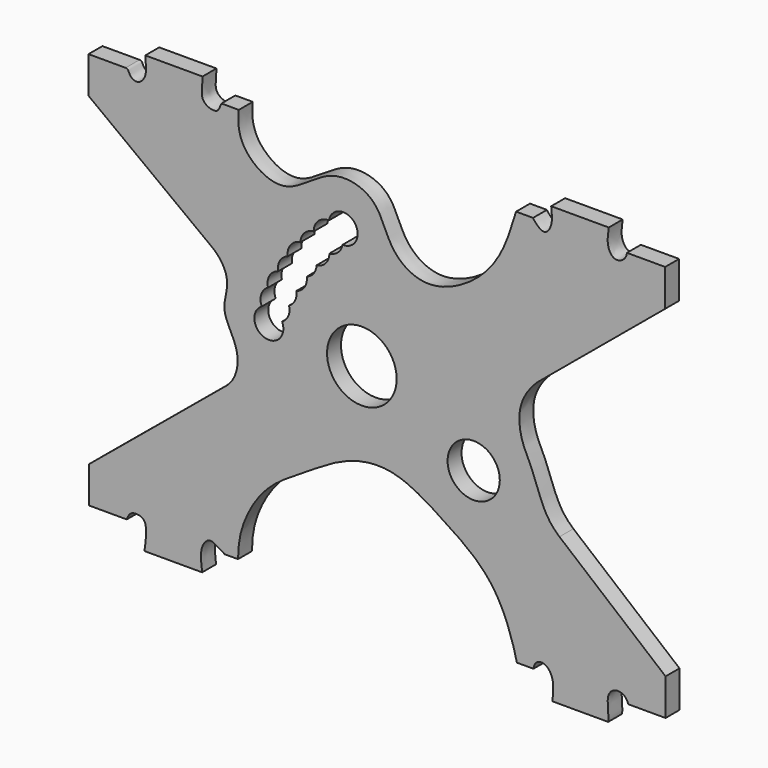
from build123d import *

# Parameters (mm, degrees)
F0_R     = 2.25
F0_R_2   = 3
F1_DEPTH = 1.5


with BuildPart() as f1:
    # F0 (on Front) → F1 (new body)
    with BuildSketch(Plane.XZ):
        with BuildLine():
            Line((-15.0251509622, 17.3645764589), (-19.9545007199, 17.3645764589))
            add(Edge.make_bspline(
                [(-19.9545007199, 17.3645764589), (-19.9535720667, 16.8131621824), (-19.7168747224, 15.8775874684), (-20.5793013029, 14.9053038169), (-21.3859451314, 15.3877012187), (-21.4138567556, 15.8836599543), (-21.6542761773, 15.8687736839)],
                knots=[0, 0, 0, 0, 0.3221210085, 0.5826458094, 0.8070723447, 1, 1, 1, 1], degree=3))
            Line((-21.6542761773, 15.8687736839), (-24.8498562723, 15.8687736839))
            Line((-24.8498562723, 15.8687736839), (-24.8498562723, 12.7071905881))
            Line((-24.8498562723, 12.7071905881), (-14.1072720289, 4.6162568033))
            add(Edge.make_bspline(
                [(-14.1072720289, 4.6162568033), (-13.2230557501, 3.8683512248), (-12.5955822995, 2.3662194197), (-13.4785055168, 0.3393812838), (-12.2918030886, -1.6116186172), (-11.7680076762, -3.4464893707), (-12.3909122816, -5.045914489), (-13.1553970277, -5.582400132)],
                knots=[0, 0, 0, 0, 0.218757957, 0.4076229901, 0.6044433625, 0.7893669519, 1, 1, 1, 1], degree=3))
            Line((-13.1553970277, -5.582400132), (-24.8158611357, -15.2371283621))
            Line((-24.8158611357, -15.2371283621), (-24.8158611357, -18.3647163212))
            Line((-24.8158611357, -18.3647163212), (-21.5522907674, -18.3647163212))
            add(Edge.make_bspline(
                [(-21.5522907674, -18.3647163212), (-21.3619760825, -17.7734100915), (-20.8040792236, -17.5927453525), (-19.6938703532, -17.8804564704), (-19.907143935, -19.3937320877), (-20.0300551951, -20.268464461)],
                knots=[0, 0, 0, 0, 0.3011288202, 0.5605343257, 1, 1, 1, 1], degree=3))
            Line((-20.0300551951, -20.268464461), (-15.0591470301, -20.268464461))
            add(Edge.make_bspline(
                [(-15.0591470301, -20.268464461), (-15.1428716699, -19.6049301593), (-15.3085890551, -18.4016039255), (-14.4064169123, -17.3792275229), (-13.6721117794, -17.9843845783), (-13.225236245, -18.15011929), (-13.13944906, -18.2627290487)],
                knots=[0, 0, 0, 0, 0.3411243592, 0.5884887653, 0.8102772301, 1, 1, 1, 1], degree=3))
            Line((-13.13944906, -18.2627290487), (-11.9655542076, -18.2627290487))
            add(Edge.make_bspline(
                [(-11.9655542076, -18.2627290487), (-11.9397683925, -17.5240316243), (-11.8626991056, -15.8003195677), (-9.8610237362, -11.9366248831), (-6.2123076845, -9.8606819162), (-2.6903679226, -7.4581272699), (1.4840396874, -6.8942017274), (5.573756912, -9.4160428559), (10.0239991277, -12.3879515301), (11.643280897, -16.5347525517), (11.951625046, -17.8050458649), (12.0692774653, -18.2967241853)],
                knots=[0, 0, 0, 0, 0.0881742675, 0.2041097942, 0.3214365501, 0.4387802752, 0.5511122415, 0.6746033273, 0.8076149426, 0.9250853853, 1, 1, 1, 1], degree=3))
            Line((12.0692774653, -18.2967241853), (13.4970899671, -18.2967241853))
            add(Edge.make_bspline(
                [(13.4970899671, -18.2967241853), (13.5915130377, -17.6864806563), (14.3587578575, -17.3721231317), (15.3138329986, -18.3608847172), (15.2065932408, -19.5730537285), (15.1288751513, -20.2344693244)],
                knots=[0, 0, 0, 0, 0.3003378478, 0.6028982403, 1, 1, 1, 1], degree=3))
            Line((15.1288751513, -20.2344693244), (19.9401732534, -20.2344693244))
            add(Edge.make_bspline(
                [(19.9401732534, -20.2344693244), (20.0081672519, -19.5392370224), (19.6695355791, -18.2998815741), (20.5801616594, -17.3727636932), (21.5387940949, -17.7753876825), (21.6560140252, -18.330719322)],
                knots=[0, 0, 0, 0, 0.3985033086, 0.6808096102, 1, 1, 1, 1], degree=3))
            Line((21.6560140252, -18.330719322), (24.8855892569, -18.330719322))
            Line((24.8855892569, -18.330719322), (24.8855892569, -15.1691362262))
            Line((24.8855892569, -15.1691362262), (15.740795061, -7.5541399419))
            add(Edge.make_bspline(
                [(15.740795061, -7.5541399419), (15.1128116995, -7.0203864016), (14.2610402716, -5.8244149317), (13.4580371253, -3.1665563837), (12.4129123892, -1.4137997358), (12.0762139335, 1.1880408243), (13.0056873075, 2.7284303364), (13.8030489907, 3.5283996258)],
                knots=[0, 0, 0, 0, 0.1930745588, 0.4025940869, 0.5862688664, 0.7833666871, 1, 1, 1, 1], degree=3))
            Line((13.8030489907, 3.5283996258), (24.8515922576, 12.7071896568))
            Line((24.8515922576, 12.7071896568), (24.8515922576, 15.8840939403))
            Line((24.8515922576, 15.8840939403), (21.5540286154, 15.8840939403))
            add(Edge.make_bspline(
                [(21.5540286154, 15.8840939403), (21.5294640511, 15.3656629846), (20.5337165196, 14.7005224714), (19.7483843758, 15.9215821187), (19.9426753933, 16.8238527236), (19.9902337044, 17.2965861857)],
                knots=[0, 0, 0, 0, 0.3332224732, 0.6434516576, 1, 1, 1, 1], degree=3))
            Line((19.9902337044, 17.2965861857), (15.0268878788, 17.2965861857))
            add(Edge.make_bspline(
                [(15.0268878788, 17.2965861857), (15.0871861527, 16.8053287766), (15.1930982311, 15.9356261141), (14.5313218028, 14.9135620801), (13.7594522103, 15.4713059835), (13.556660089, 15.766412366), (13.4630938992, 15.9027688205)],
                knots=[0, 0, 0, 0, 0.317911838, 0.5734347674, 0.8034012952, 1, 1, 1, 1], degree=3))
            Line((13.4630938992, 15.9027688205), (12.0012871921, 15.9027688205))
            add(Edge.make_bspline(
                [(12.0012871921, 15.9027688205), (11.4556535631, 14.0921326001), (10.3565226292, 10.4518996338), (4.6464120547, 7.0283579151), (0.9471679726, 9.3969384427), (0.2399883407, 13.1100056638), (-4.1876584296, 14.2966225813), (-7.7299584292, 10.2752792104), (-11.6908074285, 12.6642568786), (-12.0232174394, 14.6667154103), (-11.8966298178, 15.8500988036)],
                knots=[0, 0, 0, 0, 0.1465590584, 0.2947577084, 0.4116920328, 0.5258589953, 0.6432512693, 0.7759323474, 0.89192575, 1, 1, 1, 1], degree=3))
            Line((-11.8966298178, 15.8500988036), (-13.393365778, 15.8500988036))
            add(Edge.make_bspline(
                [(-13.393365778, 15.8500988036), (-13.5080072019, 15.5723166362), (-13.6784000772, 14.982350744), (-14.6455578559, 15.1844355392), (-15.2435875686, 15.8328844958), (-15.0074686052, 16.8265287767), (-15.0251509622, 17.3645764589)],
                knots=[0, 0, 0, 0, 0.2300074433, 0.4569541416, 0.68335264, 1, 1, 1, 1], degree=3))
        make_face()
        with Locations((8.3475373685, -4.9279744403)):
            Circle(F0_R, mode=Mode.SUBTRACT)
        with Locations((-1.290963497, -0.14)):
            Circle(F0_R_2, mode=Mode.SUBTRACT)
        with BuildLine():
            ThreePointArc((-4.131682264, 9.9881394641), (-1.9249265746, 10.5500303858), (-2.9575211924, 8.5204391866))
            ThreePointArc((-2.9575211924, 8.5204391866), (-3.3480862624, 7.8138236715), (-4.0891277985, 7.4933490205))
            ThreePointArc((-4.0891277985, 7.4933490205), (-4.4021766147, 6.6550527276), (-5.1953643016, 6.2408142342))
            ThreePointArc((-5.1953643016, 6.2408142342), (-5.4411491533, 5.5407481061), (-6.0404504072, 5.1033229308))
            ThreePointArc((-6.0404504072, 5.1033229308), (-6.2295343938, 4.2418164709), (-6.9403458161, 3.7196160722))
            ThreePointArc((-6.9403458161, 3.7196160722), (-7.0425000321, 2.9620011851), (-7.5666955237, 2.4055527262))
            ThreePointArc((-7.5666955237, 2.4055527262), (-7.6271174522, 1.600417658), (-8.1671190931, 1.0001747777))
            ThreePointArc((-8.1671190931, 1.0001747777), (-9.698543548, -0.7006406517), (-9.9161059112, 1.5776702586))
            ThreePointArc((-9.9161059112, 1.5776702586), (-9.962619044, 2.4863215154), (-9.3807834636, 3.1858055648))
            ThreePointArc((-9.3807834636, 3.1858055648), (-9.2544636888, 4.1230055487), (-8.5079487638, 4.7035363075))
            ThreePointArc((-8.5079487638, 4.7035363075), (-8.3543865167, 5.5578534847), (-7.6815101895, 6.1061933896))
            ThreePointArc((-7.6815101895, 6.1061933896), (-7.435447654, 7.0481780154), (-6.5882565067, 7.527916451))
            ThreePointArc((-6.5882565067, 7.527916451), (-6.241767649, 8.3471963981), (-5.4381442807, 8.7285933595))
            ThreePointArc((-5.4381442807, 8.7285933595), (-5.0557690349, 9.6393110826), (-4.131682264, 9.9881394641))
        make_face(mode=Mode.SUBTRACT)
    extrude(amount=F1_DEPTH)


solid = f1.part
